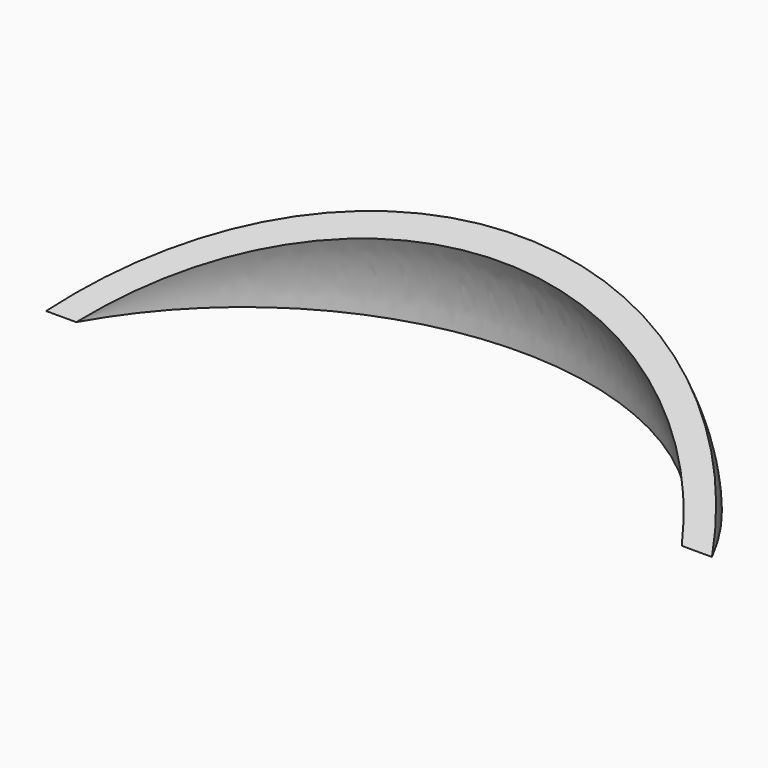
from build123d import *

# Parameters (mm, degrees)
F1_ANGLE = 30


with BuildPart() as f1:
    # F0 (on Top) → F1 (revolve)
    with BuildSketch(Plane.XY):
        with BuildLine():
            Line((57.934143, 0), (63.599922, 0))
            ThreePointArc((63.599922, 0), (1.133034, 38.32026), (-61.333854, 0))
            Line((-61.333854, 0), (-55.668075, 0))
            ThreePointArc((-55.668075, 0), (1.133034, 33.32026), (57.934143, 0))
        make_face()
    revolve(axis=Axis((-58.500964, 0, 0), (1, 0, 0)), revolution_arc=F1_ANGLE)


solid = f1.part
